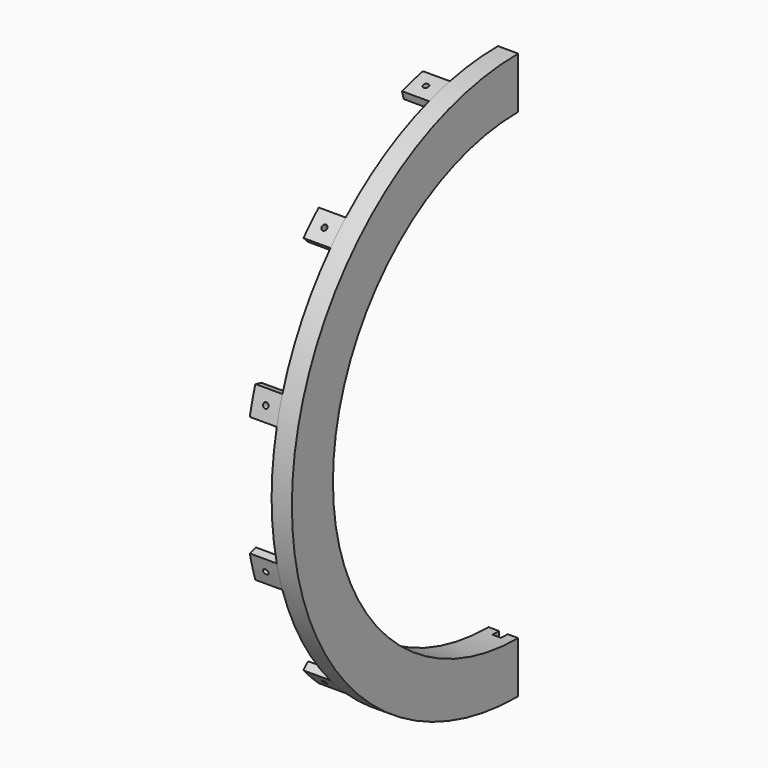
from build123d import *

# Parameters (mm, degrees)
F1_ANGLE  = 180
F4_DEPTH  = 10
F7_W      = 3.2
F7_H      = 6.2
F8_DEPTH  = 10
F9_W      = 3.2
F9_H      = 3.1
F10_DEPTH = 10
F12_START = 3
F11_R     = 5
F12_DEPTH = 22
F14_START = 2
F14_DEPTH = 23
F16_DEPTH = 5
F18_DEPTH = 5
F19_DEPTH = 5
F20_DEPTH = 5
F21_DEPTH = 5
F22_DEPTH = 5
F23_DEPTH = 5


with BuildPart() as f1:
    # F0 (on Front) → F1 (revolve)
    with BuildSketch(Plane.XZ):
        Polygon((-16.7513387203, 88.73), (-16.7513387203, 85.73), (-5.7513387203, 85.73), (-5.7513387203, 104.73), (-7.7513387203, 104.73), (-8.7513387203, 104.73), (-13.2513387203, 104.73), (-13.2513387203, 99.23), (-8.2513387203, 99.23), (-8.2513387203, 94.23), (-13.2513387203, 94.23), (-13.2513387203, 88.73), align=None)
    revolve(axis=Axis((-0.0001329999, 0, 0), (1, 0, 0)), revolution_arc=F1_ANGLE)

    # F3 (on offset) → F4 (cut)
    with BuildSketch(Plane.XY.offset(-80)):
        Polygon((-12.8513387203, -3.1), (-9.6513387203, -3.1), (-9.6513387203, 0), (-9.6513387203, 1.5724437544), (-12.8513387203, 1.5724437544), (-12.8513387203, 0), align=None)
    extrude(amount=-F4_DEPTH, mode=Mode.SUBTRACT)

    # F7 (on offset) → F8 (cut)
    with BuildSketch(Plane.XZ.offset(80)):
        with Locations((-11.2513387203, 0)):
            Rectangle(F7_W, F7_H)
    extrude(amount=F8_DEPTH, mode=Mode.SUBTRACT)

    # F9 (on offset) → F10 (cut)
    with BuildSketch(Plane.XY.offset(80)):
        with Locations((-11.2513387203, -1.55)):
            Rectangle(F9_W, F9_H)
    extrude(amount=F10_DEPTH, mode=Mode.SUBTRACT)

    # F11 (on face) → F12 (cut)
    with BuildSketch(Plane(origin=(-8.2513387203, 0, 0), x_dir=(0, -1, 0), z_dir=(-1, 0, 0)).offset(F12_START)):
        with Locations((0, 96.73)):
            Circle(F11_R)
        with Locations((-10.1110382519, 96.200102939)):
            Circle(F11_R)
        with Locations((-20.1112978528, 94.616217419)):
            Circle(F11_R)
        with Locations((-29.8912138659, 91.9956968212)):
            Circle(F11_R)
        with Locations((-39.3436354847, 88.3672521178)):
            Circle(F11_R)
        with Locations((-48.365, 83.7706373081)):
            Circle(F11_R)
        with Locations((-56.8564674543, 78.2562138659)):
            Circle(F11_R)
        with Locations((-64.7250035531, 71.8843989684)):
            Circle(F11_R)
        with Locations((-71.8843989684, 64.7250035531)):
            Circle(F11_R)
        with Locations((-78.2562138659, 56.8564674543)):
            Circle(F11_R)
        with Locations((-83.7706373081, 48.365)):
            Circle(F11_R)
        with Locations((-88.3672521178, 39.3436354847)):
            Circle(F11_R)
        with Locations((-91.9956968212, 29.8912138659)):
            Circle(F11_R)
        with Locations((-94.616217419, 20.1112978528)):
            Circle(F11_R)
        with Locations((-96.200102939, 10.1110382519)):
            Circle(F11_R)
        with Locations((-96.73, 0)):
            Circle(F11_R)
        with Locations((-96.200102939, -10.1110382519)):
            Circle(F11_R)
        with Locations((-94.616217419, -20.1112978528)):
            Circle(F11_R)
        with Locations((-91.9956968212, -29.8912138659)):
            Circle(F11_R)
        with Locations((-88.3672521178, -39.3436354847)):
            Circle(F11_R)
        with Locations((-83.7706373081, -48.365)):
            Circle(F11_R)
        with Locations((-78.2562138659, -56.8564674543)):
            Circle(F11_R)
        with Locations((-71.8843989684, -64.7250035531)):
            Circle(F11_R)
        with Locations((-64.7250035531, -71.8843989684)):
            Circle(F11_R)
        with Locations((-56.8564674543, -78.2562138659)):
            Circle(F11_R)
        with Locations((-48.365, -83.7706373081)):
            Circle(F11_R)
        with Locations((-39.3436354847, -88.3672521178)):
            Circle(F11_R)
        with Locations((-29.8912138659, -91.9956968212)):
            Circle(F11_R)
        with Locations((-20.1112978528, -94.616217419)):
            Circle(F11_R)
        with Locations((-10.1110382519, -96.200102939)):
            Circle(F11_R)
        with Locations((0, -96.73)):
            Circle(F11_R)
        with Locations((10.1110382519, -96.200102939)):
            Circle(F11_R)
        with Locations((20.1112978528, -94.616217419)):
            Circle(F11_R)
        with Locations((29.8912138659, -91.9956968212)):
            Circle(F11_R)
        with Locations((39.3436354847, -88.3672521178)):
            Circle(F11_R)
        with Locations((48.365, -83.7706373081)):
            Circle(F11_R)
        with Locations((56.8564674543, -78.2562138659)):
            Circle(F11_R)
        with Locations((64.7250035531, -71.8843989684)):
            Circle(F11_R)
        with Locations((71.8843989684, -64.7250035531)):
            Circle(F11_R)
        with Locations((78.2562138659, -56.8564674543)):
            Circle(F11_R)
        with Locations((83.7706373081, -48.365)):
            Circle(F11_R)
        with Locations((88.3672521178, -39.3436354847)):
            Circle(F11_R)
        with Locations((91.9956968212, -29.8912138659)):
            Circle(F11_R)
        with Locations((94.616217419, -20.1112978528)):
            Circle(F11_R)
        with Locations((96.200102939, -10.1110382519)):
            Circle(F11_R)
        with Locations((96.73, 0)):
            Circle(F11_R)
        with Locations((96.200102939, 10.1110382519)):
            Circle(F11_R)
        with Locations((94.616217419, 20.1112978528)):
            Circle(F11_R)
        with Locations((91.9956968212, 29.8912138659)):
            Circle(F11_R)
        with Locations((88.3672521178, 39.3436354847)):
            Circle(F11_R)
        with Locations((83.7706373081, 48.365)):
            Circle(F11_R)
        with Locations((78.2562138659, 56.8564674543)):
            Circle(F11_R)
        with Locations((71.8843989684, 64.7250035531)):
            Circle(F11_R)
        with Locations((64.7250035531, 71.8843989684)):
            Circle(F11_R)
        with Locations((56.8564674543, 78.2562138659)):
            Circle(F11_R)
        with Locations((48.365, 83.7706373081)):
            Circle(F11_R)
        with Locations((39.3436354847, 88.3672521178)):
            Circle(F11_R)
        with Locations((29.8912138659, 91.9956968212)):
            Circle(F11_R)
        with Locations((20.1112978528, 94.616217419)):
            Circle(F11_R)
        with Locations((10.1110382519, 96.200102939)):
            Circle(F11_R)
    extrude(amount=F12_DEPTH, mode=Mode.SUBTRACT)

    # F13 (on face) → F14 (cut)
    with BuildSketch(Plane(origin=(-8.2513387203, 0, 0), x_dir=(0, -1, 0), z_dir=(-1, 0, 0)).offset(F14_START)):
        Polygon((0, 92.48), (1.3575944178, 92.48), (1.3575944178, 100.98), (0, 100.98), (-1.3575944178, 100.98), (-1.3575944178, 92.48), align=None)
        Polygon((-9.666792283, 91.9733848837), (-8.3166349095, 92.1152921419), (-9.2051268473, 100.5687282525), (-10.5552842208, 100.4268209943), (-11.9054415943, 100.2849137361), (-11.0169496565, 91.8314776254), align=None)
        Polygon((-19.2276731668, 90.4590901159), (-17.8997454443, 90.7413498667), (-19.6669948163, 99.0556044729), (-20.9949225388, 98.7733447221), (-22.3228502613, 98.4910849713), (-20.5556008893, 90.176830365), align=None)
        Polygon((-28.5778916398, 87.953706627), (-27.2867426223, 88.3732263735), (-29.9133870745, 96.457206762), (-31.204536092, 96.0376870155), (-32.4956851095, 95.6181672689), (-29.8690406573, 87.5341868804), align=None)
        Polygon((-37.6150047516, 84.4846839228), (-36.374780538, 85.0368673189), (-39.8320420041, 92.8020037089), (-41.0722662178, 92.2498203127), (-42.3124904315, 91.6976369166), (-38.8552289653, 83.9325005266), align=None)
        Polygon((-46.24, 80.090029342), (-45.0642887462, 80.7688265509), (-49.3142887462, 88.130042483), (-50.49, 87.4512452742), (-51.6657112538, 86.7724480653), (-47.4157112538, 79.4112321331), align=None)
        Polygon((-54.358380132, 74.8178916398), (-53.2600631766, 75.6158656172), (-58.2562378211, 82.4925100693), (-59.3545547765, 81.694536092), (-60.4528717319, 80.8965621146), (-55.4566970874, 74.0199176624), align=None)
        Polygon((-61.8811984761, 68.7260334601), (-60.8723092094, 69.6344414361), (-66.5599193635, 75.9511724527), (-67.5688086301, 75.0427644767), (-68.5776978968, 74.1343565008), (-62.8900877427, 67.8176254842), align=None)
        Polygon((-68.7260334601, 61.8811984761), (-67.8176254842, 62.8900877427), (-74.1343565008, 68.5776978968), (-75.0427644767, 67.5688086301), (-75.9511724527, 66.5599193635), (-69.6344414361, 60.8723092094), align=None)
        Polygon((-74.8178916398, 54.358380132), (-74.0199176624, 55.4566970874), (-80.8965621146, 60.4528717319), (-81.694536092, 59.3545547765), (-82.4925100693, 58.2562378211), (-75.6158656172, 53.2600631766), align=None)
        Polygon((-80.090029342, 46.24), (-79.4112321331, 47.4157112538), (-86.7724480653, 51.6657112538), (-87.4512452742, 50.49), (-88.130042483, 49.3142887462), (-80.7688265509, 45.0642887462), align=None)
        Polygon((-84.4846839228, 37.6150047517), (-83.9325005266, 38.8552289653), (-91.6976369166, 42.3124904315), (-92.2498203127, 41.0722662178), (-92.8020037089, 39.8320420041), (-85.0368673189, 36.374780538), align=None)
        Polygon((-87.953706627, 28.5778916398), (-87.5341868804, 29.8690406573), (-95.6181672689, 32.4956851095), (-96.0376870155, 31.204536092), (-96.457206762, 29.9133870745), (-88.3732263735, 27.2867426223), align=None)
        Polygon((-90.4590901159, 19.2276731668), (-90.176830365, 20.5556008893), (-98.4910849713, 22.3228502613), (-98.7733447221, 20.9949225388), (-99.0556044729, 19.6669948163), (-90.7413498667, 17.8997454443), align=None)
        Polygon((-91.9733848837, 9.666792283), (-91.8314776254, 11.0169496565), (-100.2849137361, 11.9054415943), (-100.4268209943, 10.5552842208), (-100.5687282525, 9.2051268473), (-92.1152921419, 8.3166349095), align=None)
        Polygon((-92.48, 0), (-92.48, 1.3575944178), (-100.98, 1.3575944178), (-100.98, 0), (-100.98, -1.3575944178), (-92.48, -1.3575944178), align=None)
        Polygon((-91.9733848837, -9.666792283), (-92.1152921419, -8.3166349095), (-100.5687282525, -9.2051268473), (-100.4268209943, -10.5552842208), (-100.2849137361, -11.9054415943), (-91.8314776254, -11.0169496565), align=None)
        Polygon((-90.4590901159, -19.2276731668), (-90.7413498667, -17.8997454443), (-99.0556044729, -19.6669948163), (-98.7733447221, -20.9949225388), (-98.4910849713, -22.3228502613), (-90.176830365, -20.5556008893), align=None)
        Polygon((-87.953706627, -28.5778916398), (-88.3732263735, -27.2867426223), (-96.457206762, -29.9133870745), (-96.0376870155, -31.204536092), (-95.6181672689, -32.4956851095), (-87.5341868804, -29.8690406573), align=None)
        Polygon((-84.4846839228, -37.6150047516), (-85.0368673189, -36.374780538), (-92.8020037089, -39.8320420041), (-92.2498203127, -41.0722662178), (-91.6976369166, -42.3124904315), (-83.9325005266, -38.8552289653), align=None)
        Polygon((-80.090029342, -46.24), (-80.7688265509, -45.0642887462), (-88.130042483, -49.3142887462), (-87.4512452742, -50.49), (-86.7724480653, -51.6657112538), (-79.4112321331, -47.4157112538), align=None)
        Polygon((-74.8178916398, -54.358380132), (-75.6158656172, -53.2600631766), (-82.4925100693, -58.2562378211), (-81.694536092, -59.3545547765), (-80.8965621146, -60.4528717319), (-74.0199176624, -55.4566970874), align=None)
        Polygon((-68.7260334601, -61.8811984761), (-69.6344414361, -60.8723092094), (-75.9511724527, -66.5599193635), (-75.0427644767, -67.5688086301), (-74.1343565008, -68.5776978968), (-67.8176254842, -62.8900877427), align=None)
        Polygon((-61.8811984761, -68.7260334601), (-62.8900877427, -67.8176254842), (-68.5776978968, -74.1343565008), (-67.5688086301, -75.0427644767), (-66.5599193635, -75.9511724527), (-60.8723092094, -69.6344414361), align=None)
        Polygon((-54.358380132, -74.8178916398), (-55.4566970874, -74.0199176624), (-60.4528717319, -80.8965621146), (-59.3545547765, -81.694536092), (-58.2562378211, -82.4925100693), (-53.2600631766, -75.6158656172), align=None)
        Polygon((-46.24, -80.090029342), (-47.4157112538, -79.4112321331), (-51.6657112538, -86.7724480653), (-50.49, -87.4512452742), (-49.3142887462, -88.130042483), (-45.0642887462, -80.7688265509), align=None)
        Polygon((-37.6150047516, -84.4846839228), (-38.8552289653, -83.9325005266), (-42.3124904315, -91.6976369166), (-41.0722662178, -92.2498203127), (-39.8320420041, -92.8020037089), (-36.374780538, -85.0368673189), align=None)
        Polygon((-28.5778916398, -87.953706627), (-29.8690406573, -87.5341868804), (-32.4956851095, -95.6181672689), (-31.204536092, -96.0376870155), (-29.9133870745, -96.457206762), (-27.2867426223, -88.3732263735), align=None)
        Polygon((-19.2276731668, -90.4590901159), (-20.5556008893, -90.176830365), (-22.3228502613, -98.4910849713), (-20.9949225388, -98.7733447221), (-19.6669948163, -99.0556044729), (-17.8997454443, -90.7413498667), align=None)
        Polygon((-9.666792283, -91.9733848837), (-11.0169496565, -91.8314776254), (-11.9054415943, -100.2849137361), (-10.5552842208, -100.4268209943), (-9.2051268473, -100.5687282525), (-8.3166349095, -92.1152921419), align=None)
        Polygon((0, -92.48), (-1.3575944178, -92.48), (-1.3575944178, -100.98), (0, -100.98), (1.3575944178, -100.98), (1.3575944178, -92.48), align=None)
        Polygon((9.666792283, -91.9733848837), (8.3166349095, -92.1152921419), (9.2051268473, -100.5687282525), (10.5552842208, -100.4268209943), (11.9054415943, -100.2849137361), (11.0169496565, -91.8314776254), align=None)
        Polygon((19.2276731668, -90.4590901159), (17.8997454443, -90.7413498667), (19.6669948163, -99.0556044729), (20.9949225388, -98.7733447221), (22.3228502613, -98.4910849713), (20.5556008893, -90.176830365), align=None)
        Polygon((28.5778916398, -87.953706627), (27.2867426223, -88.3732263735), (29.9133870745, -96.457206762), (31.204536092, -96.0376870155), (32.4956851095, -95.6181672689), (29.8690406573, -87.5341868804), align=None)
        Polygon((37.6150047516, -84.4846839228), (36.374780538, -85.0368673189), (39.8320420041, -92.8020037089), (41.0722662178, -92.2498203127), (42.3124904315, -91.6976369166), (38.8552289653, -83.9325005266), align=None)
        Polygon((46.24, -80.090029342), (45.0642887462, -80.7688265509), (49.3142887462, -88.130042483), (50.49, -87.4512452742), (51.6657112538, -86.7724480653), (47.4157112538, -79.4112321331), align=None)
        Polygon((54.358380132, -74.8178916398), (53.2600631766, -75.6158656172), (58.2562378211, -82.4925100693), (59.3545547765, -81.694536092), (60.4528717319, -80.8965621146), (55.4566970874, -74.0199176624), align=None)
        Polygon((61.8811984761, -68.7260334601), (60.8723092094, -69.6344414361), (66.5599193635, -75.9511724527), (67.5688086301, -75.0427644767), (68.5776978968, -74.1343565008), (62.8900877427, -67.8176254842), align=None)
        Polygon((68.7260334601, -61.8811984761), (67.8176254842, -62.8900877427), (74.1343565008, -68.5776978968), (75.0427644767, -67.5688086301), (75.9511724527, -66.5599193635), (69.6344414361, -60.8723092094), align=None)
        Polygon((74.8178916398, -54.358380132), (74.0199176624, -55.4566970874), (80.8965621146, -60.4528717319), (81.694536092, -59.3545547765), (82.4925100693, -58.2562378211), (75.6158656172, -53.2600631766), align=None)
        Polygon((80.090029342, -46.24), (79.4112321331, -47.4157112538), (86.7724480653, -51.6657112538), (87.4512452742, -50.49), (88.130042483, -49.3142887462), (80.7688265509, -45.0642887462), align=None)
        Polygon((84.4846839228, -37.6150047517), (83.9325005266, -38.8552289653), (91.6976369166, -42.3124904315), (92.2498203127, -41.0722662178), (92.8020037089, -39.8320420041), (85.0368673189, -36.374780538), align=None)
        Polygon((87.953706627, -28.5778916398), (87.5341868804, -29.8690406573), (95.6181672689, -32.4956851095), (96.0376870155, -31.204536092), (96.457206762, -29.9133870745), (88.3732263735, -27.2867426223), align=None)
        Polygon((90.4590901159, -19.2276731668), (90.176830365, -20.5556008893), (98.4910849713, -22.3228502613), (98.7733447221, -20.9949225388), (99.0556044729, -19.6669948163), (90.7413498667, -17.8997454443), align=None)
        Polygon((91.9733848837, -9.666792283), (91.8314776254, -11.0169496565), (100.2849137361, -11.9054415943), (100.4268209943, -10.5552842208), (100.5687282525, -9.2051268473), (92.1152921419, -8.3166349095), align=None)
        Polygon((92.48, 0), (92.48, -1.3575944178), (100.98, -1.3575944178), (100.98, 0), (100.98, 1.3575944178), (92.48, 1.3575944178), align=None)
        Polygon((91.9733848837, 9.666792283), (92.1152921419, 8.3166349095), (100.5687282525, 9.2051268473), (100.4268209943, 10.5552842208), (100.2849137361, 11.9054415943), (91.8314776254, 11.0169496565), align=None)
        Polygon((90.4590901159, 19.2276731668), (90.7413498667, 17.8997454443), (99.0556044729, 19.6669948163), (98.7733447221, 20.9949225388), (98.4910849713, 22.3228502613), (90.176830365, 20.5556008893), align=None)
        Polygon((87.953706627, 28.5778916398), (88.3732263735, 27.2867426223), (96.457206762, 29.9133870745), (96.0376870155, 31.204536092), (95.6181672689, 32.4956851095), (87.5341868804, 29.8690406573), align=None)
        Polygon((84.4846839228, 37.6150047516), (85.0368673189, 36.374780538), (92.8020037089, 39.8320420041), (92.2498203127, 41.0722662178), (91.6976369166, 42.3124904315), (83.9325005266, 38.8552289653), align=None)
        Polygon((80.090029342, 46.24), (80.7688265509, 45.0642887462), (88.130042483, 49.3142887462), (87.4512452742, 50.49), (86.7724480653, 51.6657112538), (79.4112321331, 47.4157112538), align=None)
        Polygon((74.8178916398, 54.358380132), (75.6158656172, 53.2600631766), (82.4925100693, 58.2562378211), (81.694536092, 59.3545547765), (80.8965621146, 60.4528717319), (74.0199176624, 55.4566970874), align=None)
        Polygon((68.7260334601, 61.8811984761), (69.6344414361, 60.8723092094), (75.9511724527, 66.5599193635), (75.0427644767, 67.5688086301), (74.1343565008, 68.5776978968), (67.8176254842, 62.8900877427), align=None)
        Polygon((61.8811984761, 68.7260334601), (62.8900877427, 67.8176254842), (68.5776978968, 74.1343565008), (67.5688086301, 75.0427644767), (66.5599193635, 75.9511724527), (60.8723092094, 69.6344414361), align=None)
        Polygon((54.358380132, 74.8178916398), (55.4566970874, 74.0199176624), (60.4528717319, 80.8965621146), (59.3545547765, 81.694536092), (58.2562378211, 82.4925100693), (53.2600631766, 75.6158656172), align=None)
        Polygon((46.24, 80.090029342), (47.4157112538, 79.4112321331), (51.6657112538, 86.7724480653), (50.49, 87.4512452742), (49.3142887462, 88.130042483), (45.0642887462, 80.7688265509), align=None)
        Polygon((37.6150047516, 84.4846839228), (38.8552289653, 83.9325005266), (42.3124904315, 91.6976369166), (41.0722662178, 92.2498203127), (39.8320420041, 92.8020037089), (36.374780538, 85.0368673189), align=None)
        Polygon((28.5778916398, 87.953706627), (29.8690406573, 87.5341868804), (32.4956851095, 95.6181672689), (31.204536092, 96.0376870155), (29.9133870745, 96.457206762), (27.2867426223, 88.3732263735), align=None)
        Polygon((19.2276731668, 90.4590901159), (20.5556008893, 90.176830365), (22.3228502613, 98.4910849713), (20.9949225388, 98.7733447221), (19.6669948163, 99.0556044729), (17.8997454443, 90.7413498667), align=None)
        Polygon((9.666792283, 91.9733848837), (11.0169496565, 91.8314776254), (11.9054415943, 100.2849137361), (10.5552842208, 100.4268209943), (9.2051268473, 100.5687282525), (8.3166349095, 92.1152921419), align=None)
    extrude(amount=F14_DEPTH, mode=Mode.SUBTRACT)

    # F15 (on face) → F16 (join)
    with BuildSketch(Plane(origin=(-13.2513387203, 0, 0), x_dir=(0, -1, 0), z_dir=(-1, 0, 0))):
        with BuildLine():
            Line((21.468210895, -99.4389703334), (22.2455806139, -102.3401536209))
            ThreePointArc((22.2455806139, -102.3401536209), (27.1061185936, -101.1614117873), (31.9048388768, -99.7519631699))
            Line((31.9048388768, -99.7519631699), (31.1274691579, -96.8507798824))
            ThreePointArc((31.1274691579, -96.8507798824), (26.3296614583, -98.2636343084), (21.468210895, -99.4389703334))
        make_face()
        with BuildLine():
            Line((68.3115011756, -75.3825689874), (70.4353147441, -77.5063825559))
            ThreePointArc((70.4353147441, -77.5063825559), (74.0552931937, -74.0552931937), (77.5063825559, -70.4353147441))
            Line((77.5063825559, -70.4353147441), (75.3825689874, -68.3115011756))
            ThreePointArc((75.3825689874, -68.3115011756), (71.9339728501, -71.9339728501), (68.3115011756, -75.3825689874))
        make_face()
        with BuildLine():
            Line((96.8507798824, -31.1274691579), (99.7519631699, -31.9048388768))
            ThreePointArc((99.7519631699, -31.9048388768), (101.1614117873, -27.1061185936), (102.3401536209, -22.2455806139))
            Line((102.3401536209, -22.2455806139), (99.4389703334, -21.468210895))
            ThreePointArc((99.4389703334, -21.468210895), (98.2636343084, -26.3296614583), (96.8507798824, -31.1274691579))
        make_face()
        with BuildLine():
            Line((99.4389703334, 21.468210895), (102.3401536209, 22.2455806139))
            ThreePointArc((102.3401536209, 22.2455806139), (101.1614117873, 27.1061185936), (99.7519631699, 31.9048388768))
            Line((99.7519631699, 31.9048388768), (96.8507798824, 31.1274691579))
            ThreePointArc((96.8507798824, 31.1274691579), (98.2636343084, 26.3296614583), (99.4389703334, 21.468210895))
        make_face()
        with BuildLine():
            Line((75.3825689874, 68.3115011756), (77.5063825559, 70.4353147441))
            ThreePointArc((77.5063825559, 70.4353147441), (74.0552931937, 74.0552931937), (70.4353147441, 77.5063825559))
            Line((70.4353147441, 77.5063825559), (68.3115011756, 75.3825689874))
            ThreePointArc((68.3115011756, 75.3825689874), (71.9339728501, 71.9339728501), (75.3825689874, 68.3115011756))
        make_face()
        with BuildLine():
            Line((31.1274691579, 96.8507798824), (31.9048388768, 99.7519631699))
            ThreePointArc((31.9048388768, 99.7519631699), (27.1061185936, 101.1614117873), (22.2455806139, 102.3401536209))
            Line((22.2455806139, 102.3401536209), (21.468210895, 99.4389703334))
            ThreePointArc((21.468210895, 99.4389703334), (26.3296614583, 98.2636343084), (31.1274691579, 96.8507798824))
        make_face()
    extrude(amount=F16_DEPTH)

    # F17 (on face) → F18 (join)
    with BuildSketch(Plane(origin=(-18.2513387203, 0, 0), x_dir=(0, -1, 0), z_dir=(-1, 0, 0))):
        with BuildLine():
            Line((27.2943151657, -98.0000676512), (28.0708087427, -100.8979811321))
            ThreePointArc((28.0708087427, -100.8979811321), (29.9932978537, -100.343285694), (31.9048388768, -99.7519631699))
            Line((31.9048388768, -99.7519631699), (31.1274691579, -96.8507798824))
            ThreePointArc((31.1274691579, -96.8507798824), (29.2165438833, -97.4442736312), (27.2943151657, -98.0000676512))
        make_face()
        with BuildLine():
            Line((26.3296614583, -98.2636343084), (27.1061185936, -101.1614117873))
            ThreePointArc((27.1061185936, -101.1614117873), (27.5887780899, -101.0308478808), (28.0708087427, -100.8979811321))
            Line((28.0708087427, -100.8979811321), (27.2943151657, -98.0000676512))
            ThreePointArc((27.2943151657, -98.0000676512), (26.8123121735, -98.1330363125), (26.3296614583, -98.2636343084))
        make_face()
        with BuildLine():
            ThreePointArc((22.2455806139, -102.3401536209), (24.6828870221, -101.7798014748), (27.1061185936, -101.1614117873))
            Line((27.1061185936, -101.1614117873), (26.3296614583, -98.2636343084))
            ThreePointArc((26.3296614583, -98.2636343084), (23.906160379, -98.8811832248), (21.468210895, -99.4389703334))
            Line((21.468210895, -99.4389703334), (22.2455806139, -102.3401536209))
        make_face()
    extrude(amount=F18_DEPTH)

    # F19 (add): a face of the model
    f19_faces = [f1.faces().sort_by_distance(p)[0] for p in [
        (-18.2513387203, -72.9660670728, -72.9660670728),
    ]]
    extrude(f19_faces, amount=F19_DEPTH)

    # F20 (add): a face of the model
    f20_faces = [f1.faces().sort_by_distance(p)[0] for p in [
        (-18.2513387203, -99.6735012356, -26.7074341629),
    ]]
    extrude(f20_faces, amount=F20_DEPTH)

    # F21 (add): a face of the model
    f21_faces = [f1.faces().sort_by_distance(p)[0] for p in [
        (-18.2513387203, -99.6735012356, 26.7074341629),
    ]]
    extrude(f21_faces, amount=F21_DEPTH)

    # F22 (add): a face of the model
    f22_faces = [f1.faces().sort_by_distance(p)[0] for p in [
        (-18.2513387203, -72.9660670728, 72.9660670728),
    ]]
    extrude(f22_faces, amount=F22_DEPTH)

    # F23 (add): a face of the model
    f23_faces = [f1.faces().sort_by_distance(p)[0] for p in [
        (-18.2513387203, -26.7074341629, 99.6735012356),
    ]]
    extrude(f23_faces, amount=F23_DEPTH)

    # F17 (on face) → F24 (revolve, cut)
    with BuildSketch(Plane(origin=(-18.2513387203, 0, 0), x_dir=(0, -1, 0), z_dir=(-1, 0, 0))):
        Polygon((27.2355281161, 101.6443747004), (26.2696022898, 101.9031937455), (25.2343261094, 98.0394904403), (26.2002519357, 97.7806713952), align=None)
    revolve(axis=Axis((-18.2513387203, -26.7178900259, 99.7125230478), (0, 0.2588190451, -0.9659258263)), mode=Mode.SUBTRACT)

    # F17 (on face) → F25 (revolve, cut)
    with BuildSketch(Plane(origin=(-18.2513387203, 0, 0), x_dir=(0, -1, 0), z_dir=(-1, 0, 0))):
        Polygon((74.4088465843, 74.4088465843), (73.7017398031, 75.1159533654), (70.8733126783, 72.2875262407), (71.5804194595, 71.5804194595), align=None)
    revolve(axis=Axis((-18.2513387203, -72.9946330219, 72.9946330219), (0, 0.7071067812, -0.7071067812)), mode=Mode.SUBTRACT)

    # F17 (on face) → F26 (revolve, cut)
    with BuildSketch(Plane(origin=(-18.2513387203, 0, 0), x_dir=(0, -1, 0), z_dir=(-1, 0, 0))):
        Polygon((101.6443747004, 27.2355281161), (101.3855556553, 28.2014539424), (97.5218523501, 27.166177762), (97.7806713952, 26.2002519357), align=None)
    revolve(axis=Axis((-18.2513387203, -99.7125230478, 26.7178900259), (0, 0.9659258263, -0.2588190451)), mode=Mode.SUBTRACT)

    # F17 (on face) → F27 (revolve, cut)
    with BuildSketch(Plane(origin=(-18.2513387203, 0, 0), x_dir=(0, -1, 0), z_dir=(-1, 0, 0))):
        Polygon((101.6443747004, -27.2355281161), (101.9031937455, -26.2696022898), (98.0394904403, -25.2343261094), (97.7806713952, -26.2002519357), align=None)
    revolve(axis=Axis((-18.2513387203, -99.7125230478, -26.7178900259), (0, 0.9659258263, 0.2588190451)), mode=Mode.SUBTRACT)

    # F17 (on face) → F28 (revolve, cut)
    with BuildSketch(Plane(origin=(-18.2513387203, 0, 0), x_dir=(0, -1, 0), z_dir=(-1, 0, 0))):
        Polygon((74.4088465843, -74.4088465843), (75.1159533654, -73.7017398031), (72.2875262407, -70.8733126783), (71.5804194595, -71.5804194595), align=None)
    revolve(axis=Axis((-18.2513387203, -72.9946330219, -72.9946330219), (0, 0.7071067812, 0.7071067812)), mode=Mode.SUBTRACT)

    # F17 (on face) → F29 (revolve, cut)
    with BuildSketch(Plane(origin=(-18.2513387203, 0, 0), x_dir=(0, -1, 0), z_dir=(-1, 0, 0))):
        with BuildLine():
            Line((27.1061185936, -101.1614117873), (27.2355281161, -101.6443747004))
            Line((27.2355281161, -101.6443747004), (28.2014539424, -101.3855556553))
            Line((28.2014539424, -101.3855556553), (28.0708087427, -100.8979811321))
            ThreePointArc((28.0708087427, -100.8979811321), (27.5887780899, -101.0308478808), (27.1061185936, -101.1614117873))
        make_face()
        with BuildLine():
            Line((26.2002519357, -97.7806713952), (26.3296614583, -98.2636343084))
            ThreePointArc((26.3296614583, -98.2636343084), (26.8123121735, -98.1330363125), (27.2943151657, -98.0000676512))
            Line((27.2943151657, -98.0000676512), (27.166177762, -97.5218523501))
            Line((27.166177762, -97.5218523501), (26.2002519357, -97.7806713952))
        make_face()
        with BuildLine():
            Line((26.3296614583, -98.2636343084), (27.1061185936, -101.1614117873))
            ThreePointArc((27.1061185936, -101.1614117873), (27.5887780899, -101.0308478808), (28.0708087427, -100.8979811321))
            Line((28.0708087427, -100.8979811321), (27.2943151657, -98.0000676512))
            ThreePointArc((27.2943151657, -98.0000676512), (26.8123121735, -98.1330363125), (26.3296614583, -98.2636343084))
        make_face()
    revolve(axis=Axis((-18.2513387203, -26.7178900259, -99.7125230478), (0, 0.2588190451, 0.9659258263)), mode=Mode.SUBTRACT)


solid = f1.part
